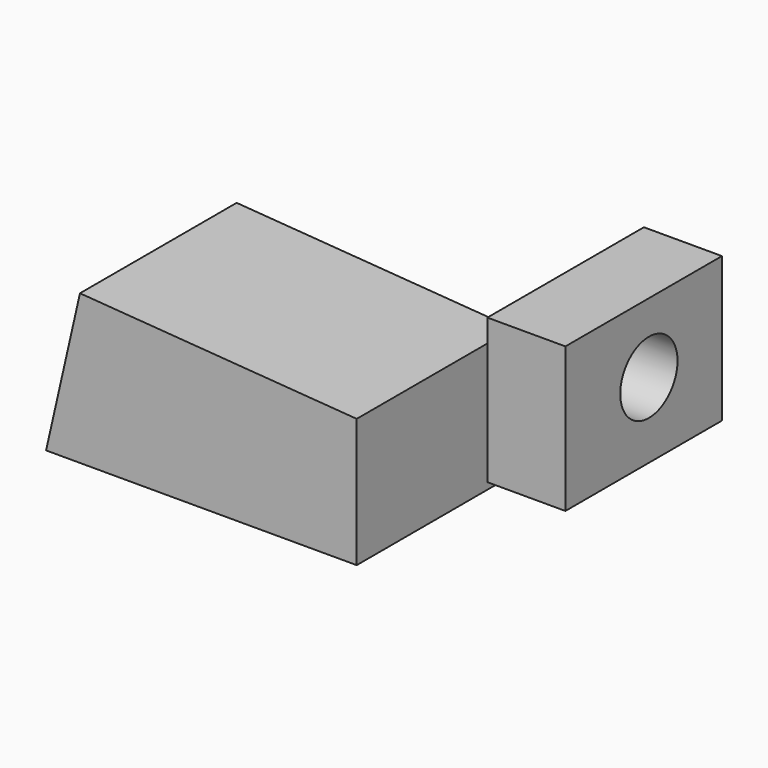
from build123d import *

# Parameters (mm, degrees)
F0_W     = 63.694341
F0_H     = 47.169637
F0_R     = 11.654765
F2_DEPTH = 25.4
F3_DEPTH = 63.754


with BuildPart() as f2:
    # F0 (on Right) → F2 (new body)
    with BuildSketch(Plane.YZ):
        with Locations((-11.677292, -0.906726)):
            Rectangle(F0_W, F0_H)
        with Locations((-9.554155, 0)):
            Circle(F0_R, mode=Mode.SUBTRACT)
    extrude(amount=F2_DEPTH)


with BuildPart() as f3:
    # F1 (on Front) → F3 (new body)
    with BuildSketch(Plane.XZ):
        Polygon((-26.354654, -6.692067), (-116.450801, 0), (-127.482966, -48.628237), (-26.354654, -48.628237), align=None)
    extrude(amount=F3_DEPTH)


solid = Compound([f2.part, f3.part])
